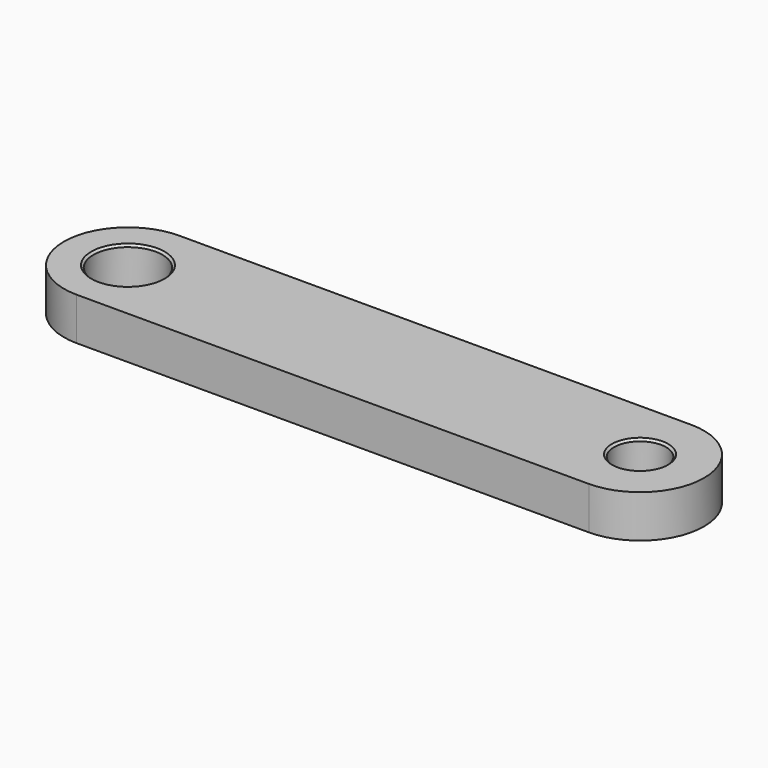
from build123d import *

# Parameters (mm, degrees)
SKETCH_R     = 6.1
SKETCH_R_2   = 8.1
PAD_DEPTH    = 10
CHAMFER_SIZE = 0.5


with BuildPart() as part:
    # Sketch → Pad (new body)
    with BuildSketch(Plane.XY):
        with BuildLine():
            ThreePointArc((-60, 15), (-75, 0), (-60, -15))
            Line((-60, -15), (60, -15))
            ThreePointArc((60, -15), (75, 0), (60, 15))
            Line((-60, 15), (60, 15))
        make_face()
        with Locations((60, 0)):
            Circle(SKETCH_R, mode=Mode.SUBTRACT)
        with Locations((-60, 0)):
            Circle(SKETCH_R_2, mode=Mode.SUBTRACT)
    extrude(amount=PAD_DEPTH)

    # Chamfer
    chamfer_edges = [part.edges().sort_by_distance(p)[0] for p in [
        (53.9, 0, 10),
        (-68.1, 0, 10),
        (53.9, 0, 0),
        (-68.1, 0, 0),
    ]]
    chamfer(chamfer_edges, length=CHAMFER_SIZE)


solid = part.part
